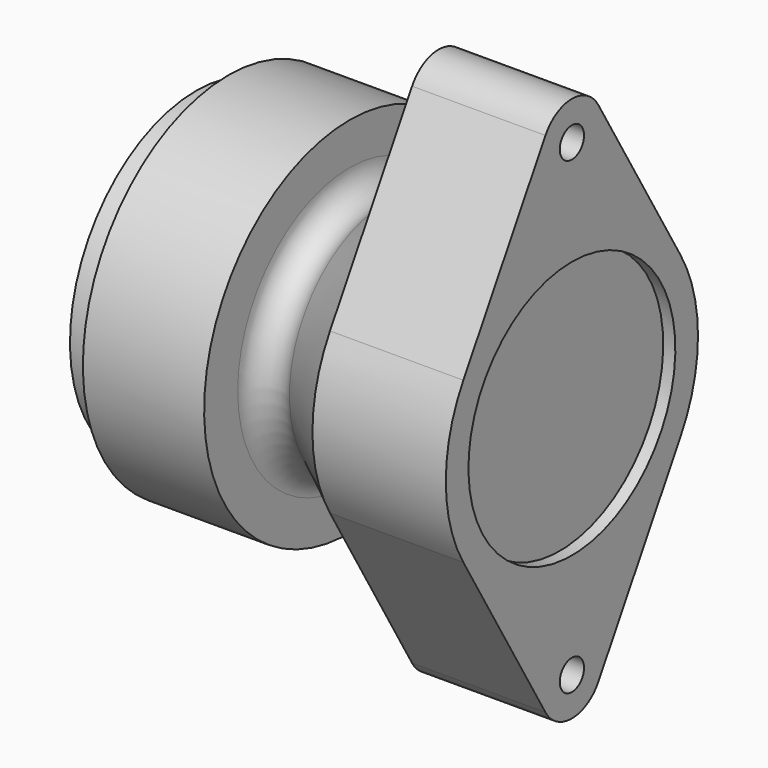
from build123d import *

# Parameters (mm, degrees)
F2_R     = 3.75
F3_DEPTH = 33


with BuildPart() as f1:
    # F0 (on Front) → F1 (revolve)
    with BuildSketch(Plane.XZ):
        with BuildLine():
            Line((0, 26), (0, 0))
            Line((0, 0), (18, 0))
            Line((18, 0), (18, 32))
            Line((18, 32), (21, 32))
            Line((21, 32), (21, 39))
            Line((21, 39), (-12, 39))
            Line((-12, 39), (-24.977598, 29.912988))
            ThreePointArc((-24.977598, 29.912988), (-30.969204, 29.41754), (-34, 34.609753))
            Line((-34, 34.609753), (-34, 45))
            Line((-34, 45), (-64, 45))
            Line((-64, 45), (-64, 39))
            Line((-64, 39), (-72, 39))
            Line((-72, 39), (-72, 31))
            Line((-72, 31), (-42, 29))
            Line((-42, 29), (-42, 26))
            Line((-42, 26), (0, 26))
        make_face()
    revolve(axis=Axis((-72.193891, 0, 0), (-1, 0, 0)))

    # F2 (on face) → F3 (join)
    with BuildSketch(Plane.YZ.offset(21)):
        with BuildLine():
            Line((33.578637, 19.836207), (8.179412, 62.831897))
            ThreePointArc((8.179412, 62.831897), (0, 67.5), (-8.179412, 62.831897))
            Line((-8.179412, 62.831897), (-33.578637, 19.836207))
            ThreePointArc((-33.578637, 19.836207), (0, 39), (33.578637, 19.836207))
        make_face()
        with Locations((0, 58)):
            Circle(F2_R, mode=Mode.SUBTRACT)
        with BuildLine():
            ThreePointArc((33.578637, -19.836207), (0, -39), (-33.578637, -19.836207))
            Line((-33.578637, -19.836207), (-8.179412, -62.831897))
            ThreePointArc((-8.179412, -62.831897), (0, -67.5), (8.179412, -62.831897))
            Line((8.179412, -62.831897), (33.578637, -19.836207))
        make_face()
        with Locations((0, -58)):
            Circle(F2_R, mode=Mode.SUBTRACT)
    extrude(amount=-F3_DEPTH)


solid = f1.part
